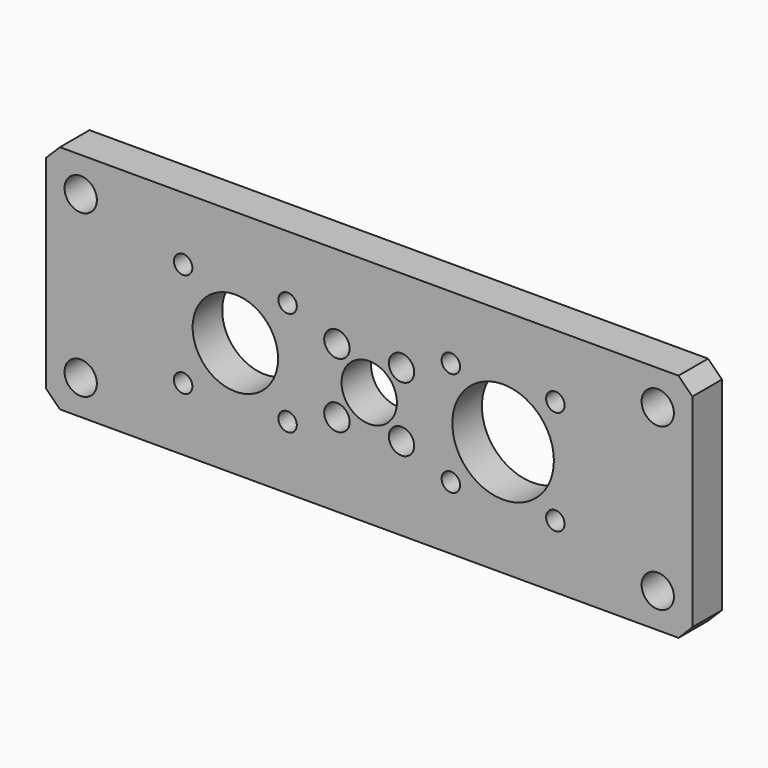
from build123d import *

# Parameters (mm, degrees)
F0_W     = 140
F0_H     = 50
F0_R     = 3.5
F0_R_2   = 2
F0_R_3   = 2.75
F0_R_4   = 9.25
F0_R_5   = 6
F0_R_6   = 11
F1_DEPTH = 8
F2_D     = 4
F3_SIZE  = 3


with BuildPart() as f1:
    # F0 (on Front) → F1 (new body)
    with BuildSketch(Plane.XZ):
        with Locations((70, 25)):
            Rectangle(F0_W, F0_H)
        with Locations((7.5, 7.5)):
            Circle(F0_R, mode=Mode.SUBTRACT)
        with Locations((29.686291501, 13.686291501)):
            Circle(F0_R_2, mode=Mode.SUBTRACT)
        with Locations((52.313708499, 13.686291501)):
            Circle(F0_R_2, mode=Mode.SUBTRACT)
        with Locations((63, 18)):
            Circle(F0_R_3, mode=Mode.SUBTRACT)
        with Locations((132.5, 7.5)):
            Circle(F0_R, mode=Mode.SUBTRACT)
        with Locations((77, 18)):
            Circle(F0_R_3, mode=Mode.SUBTRACT)
        with Locations((87.686291501, 13.686291501)):
            Circle(F0_R_2, mode=Mode.SUBTRACT)
        with Locations((110.313708499, 13.686291501)):
            Circle(F0_R_2, mode=Mode.SUBTRACT)
        with Locations((29.686291501, 36.313708499)):
            Circle(F0_R_2, mode=Mode.SUBTRACT)
        with Locations((41, 25)):
            Circle(F0_R_4, mode=Mode.SUBTRACT)
        with Locations((52.313708499, 36.313708499)):
            Circle(F0_R_2, mode=Mode.SUBTRACT)
        with Locations((63, 32)):
            Circle(F0_R_3, mode=Mode.SUBTRACT)
        with Locations((7.5, 42.5)):
            Circle(F0_R, mode=Mode.SUBTRACT)
        with Locations((70, 25)):
            Circle(F0_R_5, mode=Mode.SUBTRACT)
        with Locations((99, 25)):
            Circle(F0_R_6, mode=Mode.SUBTRACT)
        with Locations((77, 32)):
            Circle(F0_R_3, mode=Mode.SUBTRACT)
        with Locations((87.686291501, 36.313708499)):
            Circle(F0_R_2, mode=Mode.SUBTRACT)
        with Locations((110.313708499, 36.313708499)):
            Circle(F0_R_2, mode=Mode.SUBTRACT)
        with Locations((132.5, 42.5)):
            Circle(F0_R, mode=Mode.SUBTRACT)
        with Locations((52.313708499, 36.313708499)):
            Circle(F0_R_2)
        with Locations((29.686291501, 36.313708499)):
            Circle(F0_R_2)
        with Locations((29.686291501, 13.686291501)):
            Circle(F0_R_2)
        with Locations((52.313708499, 13.686291501)):
            Circle(F0_R_2)
        with Locations((87.686291501, 13.686291501)):
            Circle(F0_R_2)
        with Locations((110.313708499, 13.686291501)):
            Circle(F0_R_2)
        with Locations((110.313708499, 36.313708499)):
            Circle(F0_R_2)
        with Locations((87.686291501, 36.313708499)):
            Circle(F0_R_2)
    extrude(amount=F1_DEPTH)

    # F2 (through all)
    with Locations(Plane(origin=(0, 0, 0), x_dir=(1, 0, 0), z_dir=(0, 1, 0))):
        with Locations((29.686291501, -36.313708499), (29.686291501, -13.686291501), (52.313708499, -13.686291501), (52.313708499, -36.313708499), (87.686291501, -36.313708499), (87.686291501, -13.686291501), (110.313708499, -13.686291501), (110.313708499, -36.313708499)):
            Hole(F2_D / 2)

    # F3
    f3_edges = [f1.edges().sort_by_distance(p)[0] for p in [
        (140, -4, 50),
        (140, -4, 0),
        (0, -4, 0),
        (0, -4, 50),
    ]]
    chamfer(f3_edges, length=F3_SIZE)


solid = f1.part
